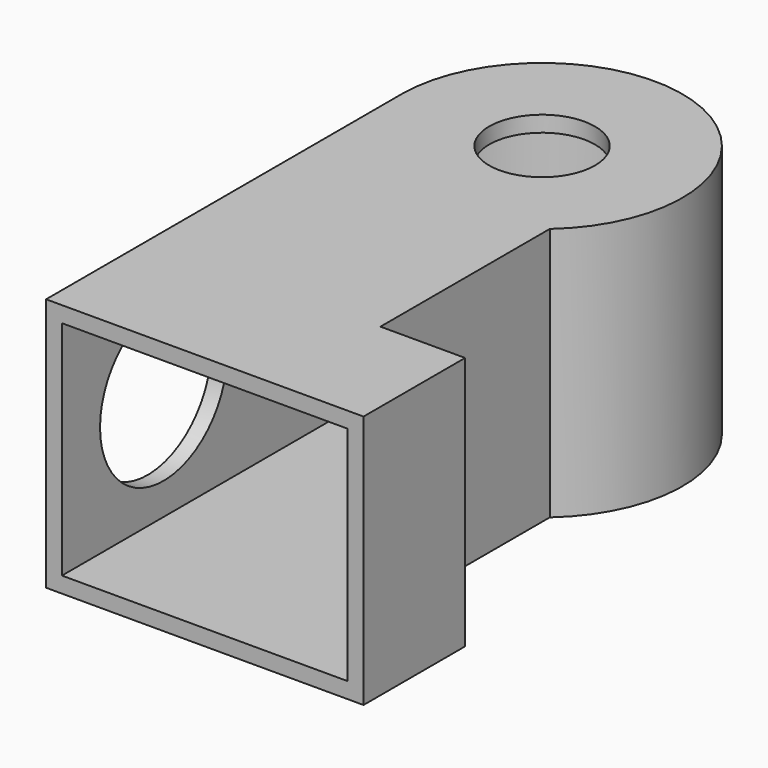
from build123d import *

# Parameters (mm, degrees)
F1_DEPTH = 240
F2_T     = -15
F3_R     = 50
F4_DEPTH = 50
F5_R     = 75
F6_DEPTH = 50


with BuildPart() as f1:
    # F0 (on Top) → F1 (new body)
    with BuildSketch(Plane.XY):
        with BuildLine():
            Line((0, 420), (0, 0))
            Line((0, 0), (300, 0))
            Line((300, 0), (300, 120))
            Line((300, 120), (220, 120))
            Line((220, 120), (220, 320))
            ThreePointArc((220, 320), (187.6502089709, 540.8304597359), (0, 420))
        make_face()
    extrude(amount=F1_DEPTH)

    # F2
    f2_openings = [f1.faces().sort_by_distance(p)[0] for p in [
        (150, 0, 120),
    ]]
    offset(amount=F2_T, openings=f2_openings, kind=Kind.INTERSECTION)

    # F3 (on face) → F4 (cut)
    with BuildSketch(Plane.XY.offset(240)):
        with Locations((132.7272727273, 420)):
            Circle(F3_R)
    extrude(amount=-F4_DEPTH, mode=Mode.SUBTRACT)

    # F5 (on face) → F6 (cut)
    with BuildSketch(Plane(origin=(0, 0, 0), x_dir=(0, -1, 0), z_dir=(-1, 0, 0))):
        with Locations((-320, 120)):
            Circle(F5_R)
        with Locations((-120, 120)):
            Circle(F5_R)
    extrude(amount=-F6_DEPTH, mode=Mode.SUBTRACT)


solid = f1.part
